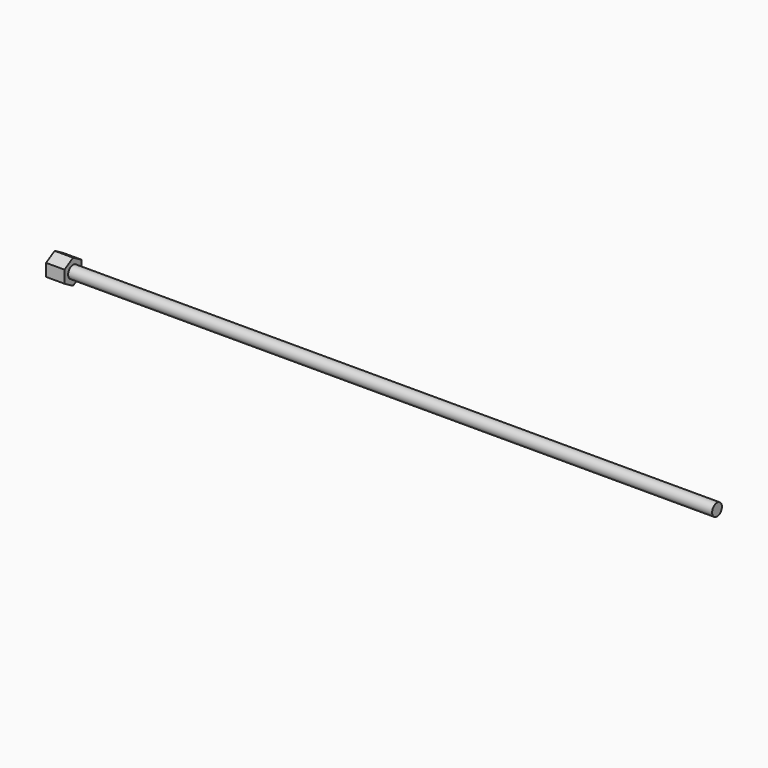
from build123d import *

# Parameters (mm, degrees)
SKETCH_R     = 4
PAD_DEPTH    = 420
PAD001_DEPTH = 12


with BuildPart() as part:
    # Sketch → Pad (new body)
    with BuildSketch(Plane.YZ):
        Circle(SKETCH_R)
    extrude(amount=PAD_DEPTH)

    # Sketch001 (on Face2 of Pad) → Pad001 (join)
    with BuildSketch(Plane(origin=(0, 0, 0), x_dir=(0, -1, 0), z_dir=(-1, 0, 0))):
        Polygon((7, 4.041452), (0, 8.082904), (-7, 4.041452), (-7, -4.041452), (0, -8.082904), (7, -4.041452), align=None)
    extrude(amount=PAD001_DEPTH)


solid = part.part
